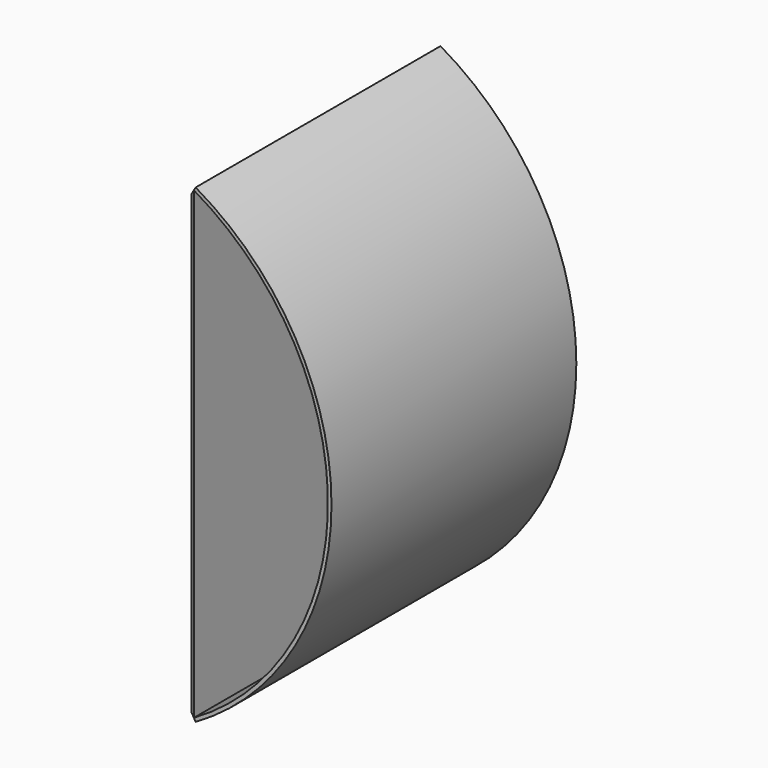
from build123d import *

# Parameters (mm, degrees)
F1_DEPTH = 138


with BuildPart() as f1:
    # F0 (on Front) → F1 (new body)
    with BuildSketch(Plane.XZ):
        with BuildLine():
            ThreePointArc((60.45, 104.702471), (120.9, 0), (60.45, -104.702471))
            Line((60.45, -104.702471), (61.25, -106.088112))
            ThreePointArc((61.25, -106.088112), (122.5, 0), (61.25, 106.088112))
            Line((61.25, 106.088112), (60.45, 104.702471))
        make_face()
        Polygon((59.45, -102.970421), (60.45, -104.702471), (60.45, 104.702471), (59.45, 102.970421), align=None)
    extrude(amount=F1_DEPTH)


solid = f1.part
